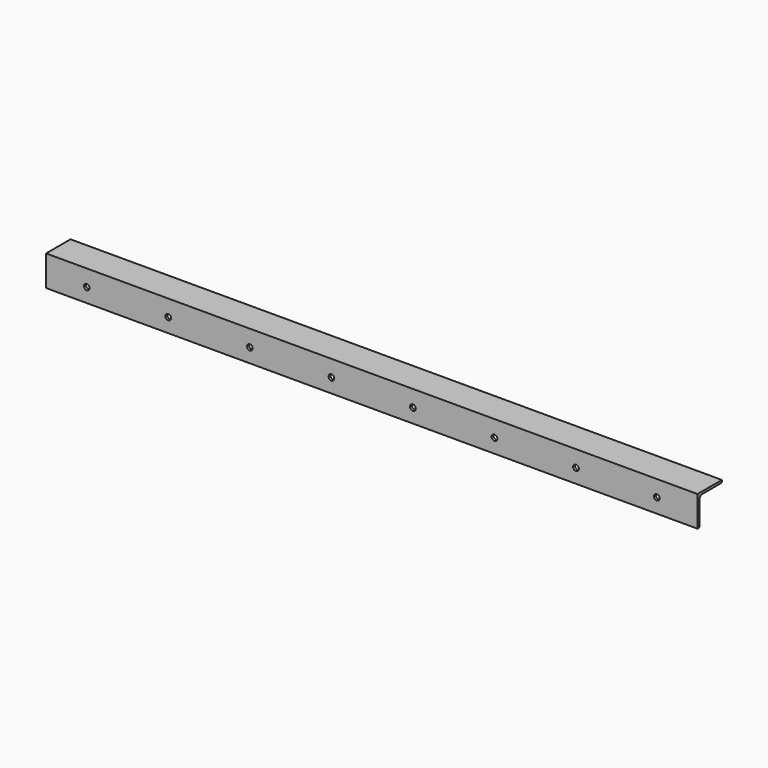
from build123d import *

# Parameters (mm, degrees)
SKETCH005_R      = 7
EXTRUDE005_DEPTH = 10
EXTRUDE004_DEPTH = 800


with BuildPart() as extrude001:
    # Sketch005 (on Face1 of Extrude004) → Extrude005 (new body)
    with BuildSketch(Plane.XZ):
        with Locations((-700, -40.447773)):
            Circle(SKETCH005_R)
        with Locations((700, -39.622757)):
            Circle(SKETCH005_R)
        with Locations((-500, -40.447773)):
            Circle(SKETCH005_R)
        with Locations((-299.49234, -40.447773)):
            Circle(SKETCH005_R)
        with Locations((-99.23851, -40.447773)):
            Circle(SKETCH005_R)
        with Locations((101.01532, -40.447773)):
            Circle(SKETCH005_R)
        with Locations((301.26915, -40.447773)):
            Circle(SKETCH005_R)
        with Locations((501.52298, -40.447773)):
            Circle(SKETCH005_R)
    extrude(amount=-EXTRUDE005_DEPTH)


with BuildPart() as angle:
    # AngleSteel006 → Extrude004 (new body, symmetric)
    with BuildSketch(Plane(origin=(0, 20.5898499587, -20.5898499587), x_dir=(0, -1, 0), z_dir=(1, 0, 0))):
        with BuildLine():
            Line((20.5898499587, -20.5898499587), (20.5898499587, 54.4101500413))
            Line((20.5898499587, 54.4101500413), (18.5898499587, 54.4101500413))
            ThreePointArc((18.5898499587, 54.4101500413), (15.761422834, 53.238577166), (14.5898499587, 50.4101500413))
            Line((14.5898499587, 50.4101500413), (14.5898499587, -6.0898499587))
            ThreePointArc((14.5898499587, -6.0898499587), (12.1002575988, -12.1002575988), (6.0898499587, -14.5898499587))
            Line((6.0898499587, -14.5898499587), (-50.4101500413, -14.5898499587))
            ThreePointArc((-50.4101500413, -14.5898499587), (-53.238577166, -15.761422834), (-54.4101500413, -18.5898499587))
            Line((-54.4101500413, -18.5898499587), (-54.4101500413, -20.5898499587))
            Line((-54.4101500413, -20.5898499587), (20.5898499587, -20.5898499587))
        make_face()
    extrude(amount=EXTRUDE004_DEPTH, both=True)

    # Cut002: cut Extrude001
    add(extrude001.part, mode=Mode.SUBTRACT)


solid = angle.part
